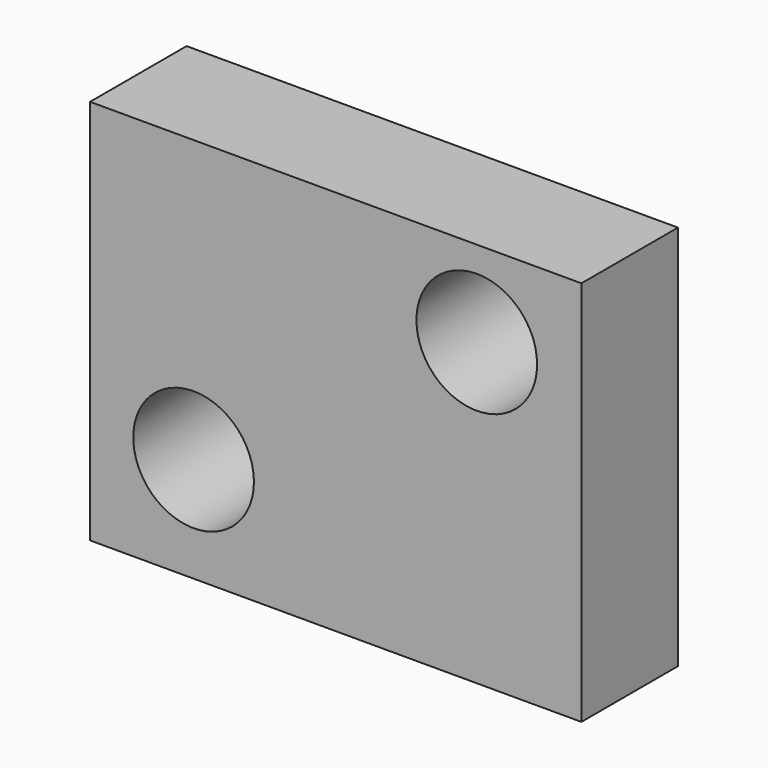
from build123d import *

# Parameters (mm, degrees)
F0_W     = 20.36
F0_H     = 16
F1_DEPTH = 5
F2_R     = 2.5
F3_DEPTH = 5.001
F4_R     = 2.5
F5_DEPTH = 5.001


with BuildPart() as f1:
    # F0 (on Front) → F1 (new body)
    with BuildSketch(Plane.XZ):
        with Locations((-1.864513, 1.827734)):
            Rectangle(F0_W, F0_H)
    extrude(amount=F1_DEPTH)

    # F2 (on face) → F3 (cut, through all)
    with BuildSketch(Plane.XZ.offset(5)):
        with Locations((-7.754513, -1.832266)):
            Circle(F2_R)
    extrude(amount=-F3_DEPTH, mode=Mode.SUBTRACT)

    # F4 (on face) → F5 (cut, through all)
    with BuildSketch(Plane.XZ.offset(5)):
        with Locations((3.979688, 6.266656)):
            Circle(F4_R)
    extrude(amount=-F5_DEPTH, mode=Mode.SUBTRACT)


solid = f1.part
